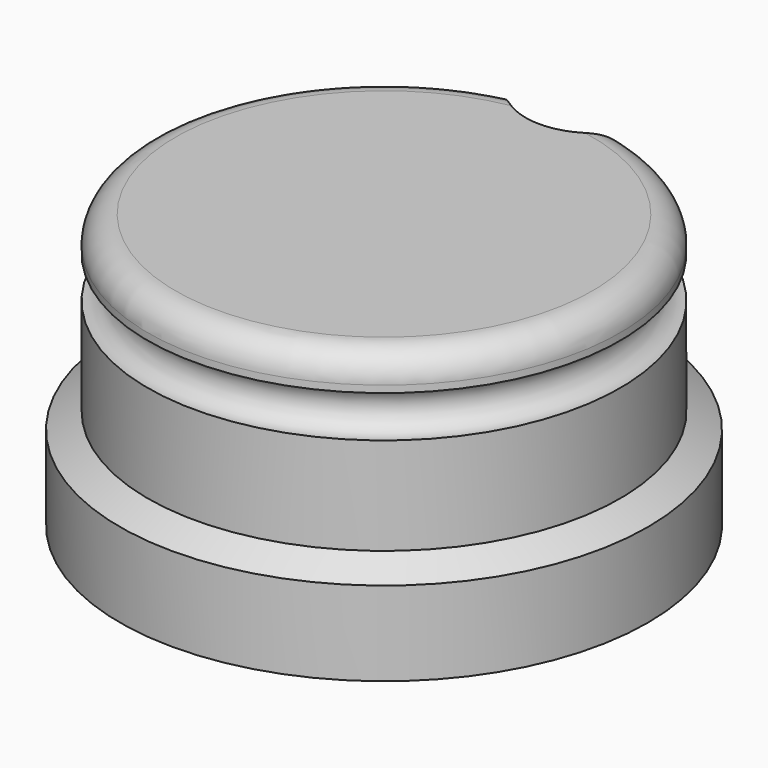
from build123d import *

# Parameters (mm, degrees)
SKETCH064_W     = 6.2
SKETCH064_H     = 4
POCKET005_DEPTH = 4.2
SKETCH093_W     = 3
SKETCH093_H     = 2.8
PAD011_DEPTH    = 5
SKETCH101_R     = 5
POCKET022_DEPTH = 5.5
POCKET055_DEPTH = 3


with BuildPart() as part:
    # Sketch063 → Revolution016 (revolve)
    with BuildSketch(Plane.YZ):
        with BuildLine():
            Line((6.05, 9), (11, 9))
            Line((11, 9), (11, 10))
            Line((11, 10), (15, 10))
            Line((15, 10), (15, 9))
            Line((15, 9), (18.5, 2.937822))
            Line((18.5, 2.937822), (19, 2.937822))
            Line((19, 9), (19, 2.937822))
            Line((17, 10.154701), (19, 9))
            Line((17, 17.154701), (17, 10.154701))
            ThreePointArc((17, 20.154701), (15.5, 18.654701), (17, 17.154701))
            Line((17, 20.654701), (17, 20.154701))
            ThreePointArc((17, 20.654701), (16.414214, 22.068914), (15, 22.654701))
            Line((0, 22.654701), (15, 22.654701))
            Line((0, 22.654701), (0, 0))
            Line((0, 0), (6.05, 0))
            Line((6.05, 0), (6.05, 9))
        make_face()
    revolve(axis=Axis((0, 0, 0), (0, 0, 1)))

    # Sketch064 (on Face1 of Revolution016) → Pocket005 (cut)
    with BuildSketch(Plane.YX):
        Rectangle(SKETCH064_W, SKETCH064_H)
    extrude(amount=-POCKET005_DEPTH, mode=Mode.SUBTRACT)

    # Sketch093 → Pad011 (join)
    with BuildSketch(Plane.XY.offset(10)):
        with Locations((-17, 0)):
            Rectangle(SKETCH093_W, SKETCH093_H)
    extrude(amount=PAD011_DEPTH)

    # Sketch101 (on Face25 of Pad011) → Pocket022 (cut)
    with BuildSketch(Plane(origin=(0, 0, 22.654701), x_dir=(0, -1, 0), z_dir=(0, 0, 1))):
        with Locations((-19, 0)):
            Circle(SKETCH101_R)
    extrude(amount=-POCKET022_DEPTH, mode=Mode.SUBTRACT)

    # Sketch174 (on Face1 of Revolution016) → Pocket055 (cut)
    with BuildSketch(Plane.YX):
        Polygon((6.75, 1.299038), (4.5, 0), (6.75, -1.299038), align=None)
    extrude(amount=-POCKET055_DEPTH, mode=Mode.SUBTRACT)


with BuildPart() as part_1:
    # Body017 placement: moved
    add(part.part.moved(Location((0, 0, 80))))


solid = part_1.part
